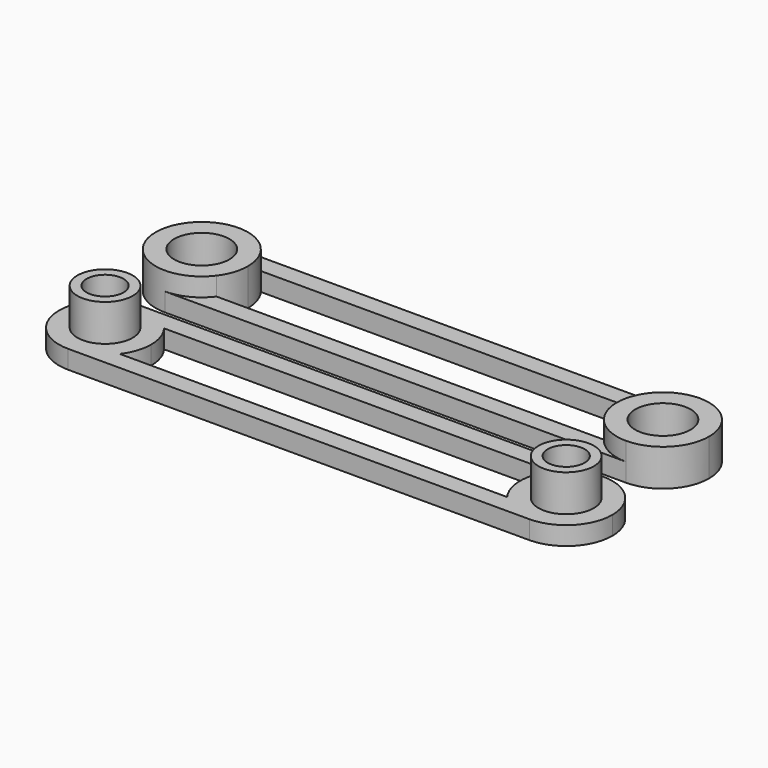
from build123d import *

# Parameters (mm, degrees)
F0_R     = 3
F1_DEPTH = 4
F2_DEPTH = 2
F3_R     = 3
F4_DEPTH = 2
F3_R_2   = 2
F5_DEPTH = 6


with BuildPart() as f1:
    # F0 (on Top) → F1 (new body)
    with BuildSketch(Plane.XY):
        with BuildLine():
            ThreePointArc((25, -5), (28.5355339059, -3.5355339059), (30, 0))
            ThreePointArc((30, 0), (28.5355339059, 3.5355339059), (25, 5))
            ThreePointArc((25, 5), (22.7639320225, 4.472135955), (21, 3))
            ThreePointArc((21, 3), (20, 0), (21, -3))
            ThreePointArc((21, -3), (22.7639320225, -4.472135955), (25, -5))
        make_face()
        with Locations((25, 0)):
            Circle(F0_R, mode=Mode.SUBTRACT)
    extrude(amount=F1_DEPTH)



with BuildPart() as f1b:
    # F0 (on Top) → F1, piece 2 (new body)
    with BuildSketch(Plane.XY):
        with BuildLine():
            ThreePointArc((-21, 3), (-22.7639320225, 4.472135955), (-25, 5))
            ThreePointArc((-25, 5), (-30, 0), (-25, -5))
            ThreePointArc((-25, -5), (-22.7639320225, -4.472135955), (-21, -3))
            ThreePointArc((-21, -3), (-20.2565835097, -1.5811388301), (-20, 0))
            ThreePointArc((-20, 0), (-20.2565835097, 1.5811388301), (-21, 3))
        make_face()
        with Locations((-25, 0)):
            Circle(F0_R, mode=Mode.SUBTRACT)
    extrude(amount=F1_DEPTH)


with BuildPart() as f1_1:
    add(f1.part)

    add(f1b.part)  # F2 merges F1b
    # F0 (on Top) → F2 (join)
    with BuildSketch(Plane.XY):
        with BuildLine():
            ThreePointArc((21, 3), (22.7639320225, 4.472135955), (25, 5))
            Line((25, 5), (-25, 5))
            ThreePointArc((-25, 5), (-22.7639320225, 4.472135955), (-21, 3))
            Line((-21, 3), (21, 3))
        make_face()
        with BuildLine():
            Line((-25, -5), (25, -5))
            ThreePointArc((25, -5), (22.7639320225, -4.472135955), (21, -3))
            Line((21, -3), (-21, -3))
            ThreePointArc((-21, -3), (-22.7639320225, -4.472135955), (-25, -5))
        make_face()
    extrude(amount=F2_DEPTH)


with BuildPart() as f4:
    # F3 (on Top) → F4 (new body)
    with BuildSketch(Plane.XY):
        with BuildLine():
            ThreePointArc((25.1777654979, -18.3323930204), (28.7132994039, -16.8679269263), (30.1777654979, -13.3323930204))
            ThreePointArc((30.1777654979, -13.3323930204), (28.7132994039, -9.7968591145), (25.1777654979, -8.3323930204))
            ThreePointArc((25.1777654979, -8.3323930204), (22.9416975204, -8.8602570654), (21.1777654979, -10.3323930204))
            ThreePointArc((21.1777654979, -10.3323930204), (20.1777654979, -13.3323930204), (21.1777654979, -16.3323930204))
            ThreePointArc((21.1777654979, -16.3323930204), (22.9416975204, -17.8045289754), (25.1777654979, -18.3323930204))
        make_face()
        with Locations((25.1777654979, -13.3323930204)):
            Circle(F3_R, mode=Mode.SUBTRACT)
        with BuildLine():
            ThreePointArc((21.1777654979, -10.3323930204), (22.9416975204, -8.8602570654), (25.1777654979, -8.3323930204))
            Line((25.1777654979, -8.3323930204), (-24.8222345021, -8.3323930204))
            ThreePointArc((-24.8222345021, -8.3323930204), (-22.5861665246, -8.8602570654), (-20.8222345021, -10.3323930204))
            Line((-20.8222345021, -10.3323930204), (21.1777654979, -10.3323930204))
        make_face()
        with BuildLine():
            Line((-24.8222345021, -18.3323930204), (25.1777654979, -18.3323930204))
            ThreePointArc((25.1777654979, -18.3323930204), (22.9416975204, -17.8045289754), (21.1777654979, -16.3323930204))
            Line((21.1777654979, -16.3323930204), (-20.8222345021, -16.3323930204))
            ThreePointArc((-20.8222345021, -16.3323930204), (-22.5861665246, -17.8045289754), (-24.8222345021, -18.3323930204))
        make_face()
        with BuildLine():
            ThreePointArc((-20.8222345021, -10.3323930204), (-22.5861665246, -8.8602570654), (-24.8222345021, -8.3323930204))
            ThreePointArc((-24.8222345021, -8.3323930204), (-29.8222345021, -13.3323930204), (-24.8222345021, -18.3323930204))
            ThreePointArc((-24.8222345021, -18.3323930204), (-22.5861665246, -17.8045289754), (-20.8222345021, -16.3323930204))
            ThreePointArc((-20.8222345021, -16.3323930204), (-20.0788180118, -14.9135318505), (-19.8222345021, -13.3323930204))
            ThreePointArc((-19.8222345021, -13.3323930204), (-20.0788180118, -11.7512541903), (-20.8222345021, -10.3323930204))
        make_face()
        with Locations((-24.8222345021, -13.3323930204)):
            Circle(F3_R, mode=Mode.SUBTRACT)
    extrude(amount=F4_DEPTH)

    # F3 (on Top) → F5 (join)
    with BuildSketch(Plane.XY):
        with Locations((-24.8222345021, -13.3323930204)):
            Circle(F3_R)
        with Locations((-24.8222345021, -13.3323930204)):
            Circle(F3_R_2, mode=Mode.SUBTRACT)
        with Locations((25.1777654979, -13.3323930204)):
            Circle(F3_R)
        with Locations((25.1777654979, -13.3323930204)):
            Circle(F3_R_2, mode=Mode.SUBTRACT)
    extrude(amount=F5_DEPTH)


solid = Compound([f1_1.part, f4.part])
